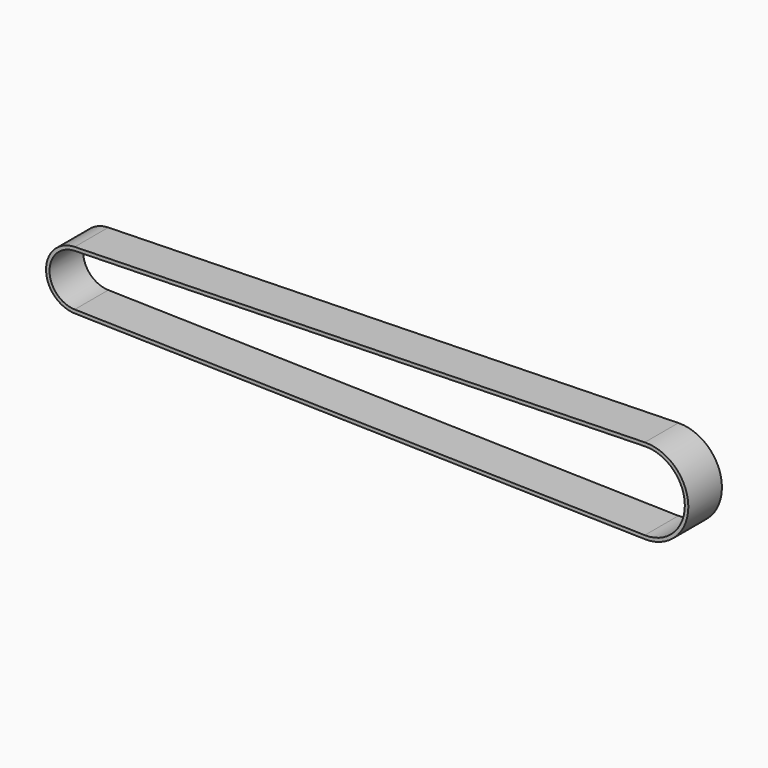
from build123d import *


with BuildPart() as f3:
    # F3: sweep along a path in F0
    with BuildLine(Plane.XZ) as f3_path:
        Line((-36.4255404949, 7.2980075577), (126.5254722566, 11.1059679396))
        ThreePointArc((126.5254722566, 11.1059679396), (137.8940047701, 0), (126.5254722566, -11.1059679396))
        Line((126.5254722566, -11.1059679396), (-36.4255404949, -7.2980075577))
        ThreePointArc((-36.4255404949, -7.2980075577), (-43.5549952299, 0), (-36.4255404949, 7.2980075577))
    # F2 (on plane+point) → F3 (sweep)
    with BuildSketch(Plane.YZ.offset(126.5254722566)):
        Polygon((-6, 11.1829582602), (0, 11.1829582602), (6, 11.1829582602), (6, 12.1829582602), (0, 12.1829582602), (-6, 12.1829582602), align=None)
    sweep(path=f3_path.line)


solid = f3.part
